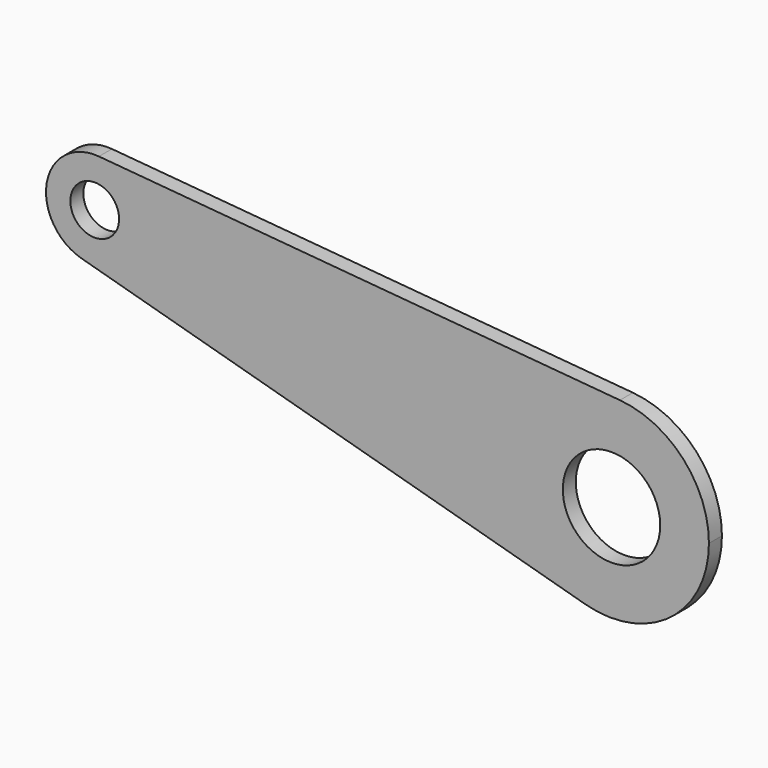
from build123d import *

# Parameters (mm, degrees)
F0_R     = 1.5
F0_R_2   = 3
F1_DEPTH = 0.5


with BuildPart() as f1:
    # F0 (on Front) → F1 (new body, symmetric)
    with BuildSketch(Plane.XZ):
        with BuildLine():
            ThreePointArc((-90.831201, -24.753431), (-88.210771, -24.253405), (-87.024657, -21.863883))
            ThreePointArc((-87.024657, -21.863883), (-87.813665, -19.836196), (-89.765666, -18.875083))
            ThreePointArc((-89.765666, -18.875083), (-92.976554, -21.328809), (-90.831201, -24.753431))
        make_face()
        with Locations((-90.024657, -21.863883)):
            Circle(F0_R, mode=Mode.SUBTRACT)
        with BuildLine():
            ThreePointArc((-89.765666, -18.875083), (-87.813665, -19.836196), (-87.024657, -21.863883))
            ThreePointArc((-87.024657, -21.863883), (-88.210771, -24.253405), (-90.831201, -24.753431))
            Line((-90.831201, -24.753431), (-59.810017, -33.412211))
            ThreePointArc((-59.810017, -33.412211), (-64.100722, -26.562968), (-57.678947, -21.655516))
            Line((-57.678947, -21.655516), (-89.765666, -18.875083))
        make_face()
        with BuildLine():
            ThreePointArc((-52.196928, -27.633116), (-53.774944, -23.577742), (-57.678947, -21.655516))
            ThreePointArc((-57.678947, -21.655516), (-64.100722, -26.562968), (-59.810017, -33.412211))
            ThreePointArc((-59.810017, -33.412211), (-54.569156, -32.41216), (-52.196928, -27.633116))
        make_face()
        with Locations((-58.196928, -27.633116)):
            Circle(F0_R_2, mode=Mode.SUBTRACT)
    extrude(amount=F1_DEPTH, both=True)


solid = f1.part
